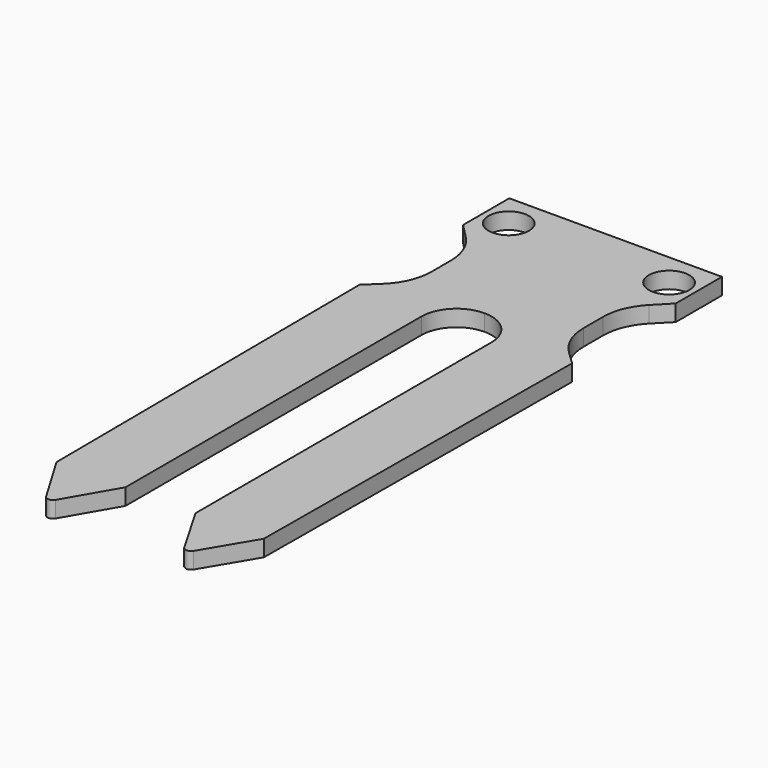
from build123d import *

# Parameters (mm, degrees)
F0_R     = 1.85
F1_DEPTH = 1.5
F2_R     = 0.5


with BuildPart() as f1:
    # F0 (on Top) → F1 (new body)
    with BuildSketch(Plane.XY):
        with BuildLine():
            Line((9.725, 0), (0, 0))
            Line((0, 0), (0, -14.989273))
            ThreePointArc((0, -14.989273), (2.266295, -15.928004), (3.205026, -18.194299))
            Line((3.205026, -18.194299), (3.205026, -52.04))
            Line((3.205026, -52.04), (6.311514, -57.417158))
            Line((6.311514, -57.417158), (9.485026, -52.079282))
            Line((9.485026, -52.079282), (9.725, -17.13))
            Line((9.725, -17.13), (8.511168, -15.97041))
            ThreePointArc((8.511168, -15.97041), (7.367764, -14.321087), (6.965, -12.35502))
            Line((6.965, -12.35502), (6.965, -10.141257))
            ThreePointArc((6.965, -10.141257), (7.334825, -8.254069), (8.389591, -6.646053))
            Line((8.389591, -6.646053), (9.725, -5.28))
            Line((9.725, -5.28), (9.725, 0))
        make_face()
        with Locations((7.334825, -3.054033)):
            Circle(F0_R, mode=Mode.SUBTRACT)
        with BuildLine():
            Line((0, -14.989273), (0, 0))
            Line((0, 0), (-9.725, 0))
            Line((-9.725, 0), (-9.725, -5.28))
            Line((-9.725, -5.28), (-8.389591, -6.646053))
            ThreePointArc((-8.389591, -6.646053), (-7.334825, -8.254069), (-6.965, -10.141257))
            Line((-6.965, -10.141257), (-6.965, -12.35502))
            ThreePointArc((-6.965, -12.35502), (-7.367764, -14.321087), (-8.511168, -15.97041))
            Line((-8.511168, -15.97041), (-9.725, -17.13))
            Line((-9.725, -17.13), (-9.485026, -52.079282))
            Line((-9.485026, -52.079282), (-6.311514, -57.417158))
            Line((-6.311514, -57.417158), (-3.205026, -52.04))
            Line((-3.205026, -52.04), (-3.205026, -18.194299))
            ThreePointArc((-3.205026, -18.194299), (-2.266295, -15.928004), (0, -14.989273))
        make_face()
        with Locations((-7.334825, -3.054033)):
            Circle(F0_R, mode=Mode.SUBTRACT)
    extrude(amount=F1_DEPTH)

    # F2
    f2_edges = [f1.edges().sort_by_distance(p)[0] for p in [
        (-6.311514, -57.417158, 0.75),
        (6.311514, -57.417158, 0.75),
    ]]
    fillet(f2_edges, radius=F2_R)


solid = f1.part
